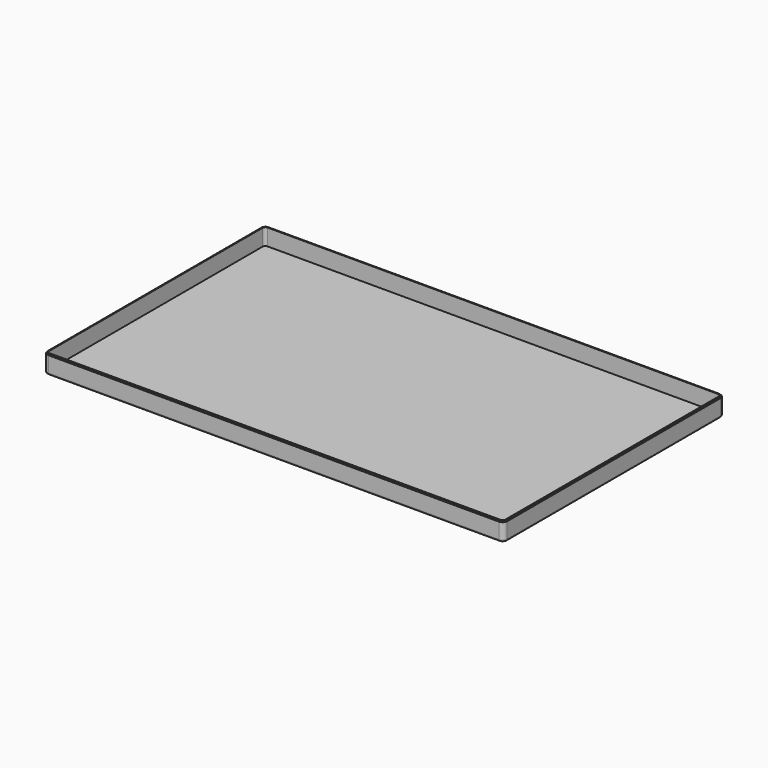
from build123d import *

# Parameters (mm, degrees)
F1_DEPTH = 25.4
F2_R     = 2.54
F3_T     = -2.54
F4_SIZE  = 1.27


with BuildPart() as f1:
    # F0 (on Top) → F1 (new body)
    with BuildSketch(Plane.XY):
        with BuildLine():
            ThreePointArc((-317.5, -184.15), (-315.6401280605, -188.6401280605), (-311.15, -190.5))
            Line((-311.15, -190.5), (311.15, -190.5))
            ThreePointArc((311.15, -190.5), (315.6401280605, -188.6401280605), (317.5, -184.15))
            Line((317.5, -184.15), (317.5, 184.15))
            ThreePointArc((317.5, 184.15), (315.6401280605, 188.6401280605), (311.15, 190.5))
            Line((311.15, 190.5), (-311.15, 190.5))
            ThreePointArc((-311.15, 190.5), (-315.6401280605, 188.6401280605), (-317.5, 184.15))
            Line((-317.5, 184.15), (-317.5, -184.15))
        make_face()
    extrude(amount=F1_DEPTH)

    # F2
    f2_edges = [f1.edges().sort_by_distance(p)[0] for p in [
        (0, -190.5, 0),
    ]]
    fillet(f2_edges, radius=F2_R)

    # F3
    f3_openings = [f1.faces().sort_by_distance(p)[0] for p in [
        (0, 0, 25.4),
    ]]
    offset(amount=F3_T, openings=f3_openings, kind=Kind.INTERSECTION)

    # F4
    f4_edges = [f1.edges().sort_by_distance(p)[0] for p in [
        (0, 190.5, 25.4),
    ]]
    chamfer(f4_edges, length=F4_SIZE)


solid = f1.part
